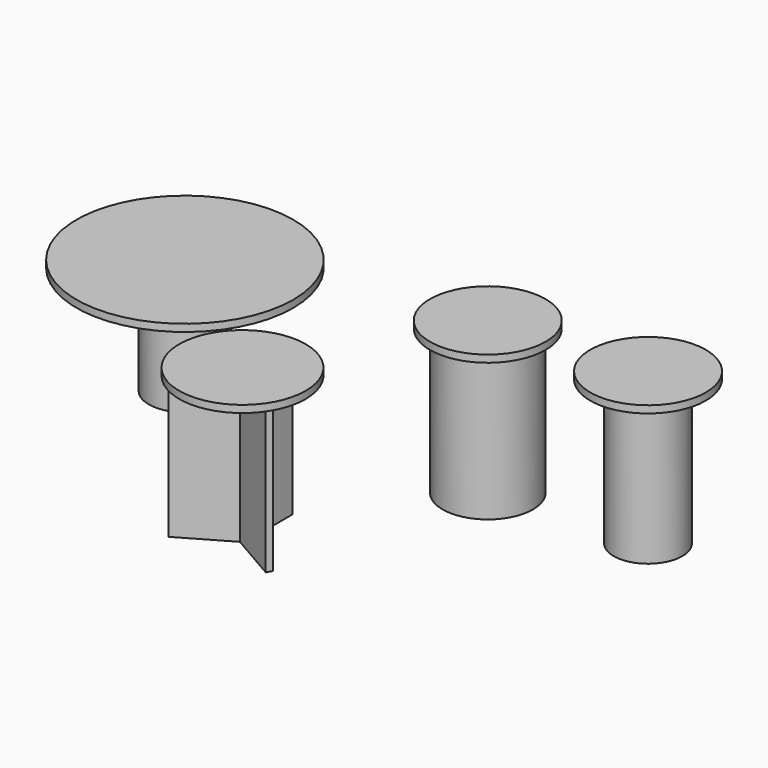
from build123d import *

# Parameters (mm, degrees)
F0_R      = 125
F0_R_2    = 100
F1_DEPTH  = 400
F2_R      = 120
F2_R_2    = 105
F3_DEPTH  = 400
F4_R      = 160
F5_DEPTH  = 20
F6_R      = 95
F6_R_2    = 85
F7_DEPTH  = 400
F8_R      = 160
F9_DEPTH  = 20
F10_R     = 100
F11_DEPTH = 300
F12_R     = 300
F13_DEPTH = 20
F15_DEPTH = 400
F16_R     = 175
F17_DEPTH = 20


with BuildPart() as f1:
    # F0 (on Top) → F1 (new body)
    with BuildSketch(Plane.XY):
        Circle(F0_R)
        Circle(F0_R_2, mode=Mode.SUBTRACT)
    extrude(amount=F1_DEPTH)


with BuildPart() as f3:
    # F2 (on Top) → F3 (new body, through all)
    with BuildSketch(Plane.XY):
        Circle(F2_R)
        Circle(F2_R_2, mode=Mode.SUBTRACT)
    extrude(amount=F3_DEPTH)


with BuildPart() as f5:
    # F4 (on face) → F5 (new body)
    with BuildSketch(Plane.XY.offset(400)):
        Circle(F4_R)
    extrude(amount=F5_DEPTH)


with BuildPart() as f7:
    # F6 (on Top) → F7 (new body)
    with BuildSketch(Plane.XY):
        with Locations((418.5667335987, 31.0303624719)):
            Circle(F6_R)
        with Locations((418.5667335987, 31.0303624719)):
            Circle(F6_R_2, mode=Mode.SUBTRACT)
    extrude(amount=F7_DEPTH)


with BuildPart() as f9:
    # F8 (on face) → F9 (new body)
    with BuildSketch(Plane.XY.offset(400)):
        with Locations((418.5667335987, 31.0303624719)):
            Circle(F8_R)
    extrude(amount=F9_DEPTH)


with BuildPart() as f11:
    # F10 (on Top) → F11 (new body)
    with BuildSketch(Plane.XY):
        with Locations((-808.6451888084, -37.0312966406)):
            Circle(F10_R)
    extrude(amount=F11_DEPTH)

    # F12 (on face) → F13 (join)
    with BuildSketch(Plane.XY.offset(300)):
        with Locations((-808.6451888084, -37.0312966406)):
            Circle(F12_R)
    extrude(amount=F13_DEPTH)


with BuildPart() as f15:
    # F14 (on Top) → F15 (new body)
    with BuildSketch(Plane.XY):
        with BuildLine():
            Line((-266.382997632, -343.2058954239), (-276.382997632, -343.2058954239))
            Line((-276.382997632, -343.2058954239), (-276.382997632, -493.2058954239))
            ThreePointArc((-276.382997632, -493.2058954239), (-271.2725924302, -494.6103292021), (-267.5976323655, -498.4291436894))
            Line((-267.5976323655, -498.4291436894), (-266.382997632, -499.1304133797))
            Line((-266.382997632, -499.1304133797), (-266.382997632, -343.2058954239))
        make_face()
        with BuildLine():
            Line((-276.382997632, -493.2058954239), (-276.382997632, -343.2058954239))
            Line((-276.382997632, -343.2058954239), (-286.382997632, -343.2058954239))
            Line((-286.382997632, -343.2058954239), (-286.382997632, -497.432392732))
            Line((-286.382997632, -497.432392732), (-281.382997632, -494.545641386))
            ThreePointArc((-281.382997632, -494.545641386), (-278.9711880831, -493.546637161), (-276.382997632, -493.2058954239))
        make_face()
        with BuildLine():
            Line((-276.382997632, -494.6764244409), (-276.382997632, -493.2058954239))
            ThreePointArc((-276.382997632, -493.2058954239), (-278.9711880831, -493.546637161), (-281.382997632, -494.545641386))
            Line((-281.382997632, -494.545641386), (-286.382997632, -497.432392732))
            Line((-286.382997632, -497.432392732), (-286.382997632, -503.2058954239))
            ThreePointArc((-286.382997632, -503.2058954239), (-286.0422558949, -505.7940858749), (-285.0432516699, -508.2058954239))
            Line((-285.0432516699, -508.2058954239), (-283.7697361841, -507.4706309154))
            ThreePointArc((-283.7697361841, -507.4706309154), (-283.7697361841, -498.9411599324), (-276.382997632, -494.6764244409))
        make_face()
        with BuildLine():
            Line((-266.382997632, -499.1304133797), (-267.5976323655, -498.4291436894))
            ThreePointArc((-267.5976323655, -498.4291436894), (-266.6914122956, -500.7415144332), (-266.382997632, -503.2058954239))
            Line((-266.382997632, -503.2058954239), (-266.382997632, -499.1304133797))
        make_face()
        with BuildLine():
            Line((-286.382997632, -503.2058954239), (-286.382997632, -497.432392732))
            Line((-286.382997632, -497.432392732), (-419.9470622375, -574.545641386))
            Line((-419.9470622375, -574.545641386), (-414.9470622375, -583.2058954239))
            Line((-414.9470622375, -583.2058954239), (-285.0432516699, -508.2058954239))
            ThreePointArc((-285.0432516699, -508.2058954239), (-286.0422558949, -505.7940858749), (-286.382997632, -503.2058954239))
        make_face()
        with BuildLine():
            Line((-133.554197535, -575.8191568718), (-266.382997632, -499.1304133797))
            Line((-266.382997632, -499.1304133797), (-266.382997632, -503.2058954239))
            ThreePointArc((-266.382997632, -503.2058954239), (-266.7237393691, -505.7940858749), (-267.7227435942, -508.2058954239))
            Line((-267.7227435942, -508.2058954239), (-137.8189330265, -583.2058954239))
            Line((-137.8189330265, -583.2058954239), (-133.554197535, -575.8191568718))
        make_face()
        with BuildLine():
            Line((-137.8189330265, -583.2058954239), (-267.7227435942, -508.2058954239))
            ThreePointArc((-267.7227435942, -508.2058954239), (-269.3119298202, -510.2769632358), (-271.382997632, -511.8661494617))
            Line((-271.382997632, -511.8661494617), (-274.912468615, -513.9038904838))
            Line((-274.912468615, -513.9038904838), (-142.083668518, -590.592633976))
            Line((-142.083668518, -590.592633976), (-137.8189330265, -583.2058954239))
        make_face()
        with BuildLine():
            ThreePointArc((-276.1271033484, -513.2026207935), (-281.271773739, -511.9294192632), (-285.0432516699, -508.2058954239))
            Line((-285.0432516699, -508.2058954239), (-414.9470622375, -583.2058954239))
            Line((-414.9470622375, -583.2058954239), (-409.9470622375, -591.8661494617))
            Line((-409.9470622375, -591.8661494617), (-274.912468615, -513.9038904838))
            Line((-274.912468615, -513.9038904838), (-276.1271033484, -513.2026207935))
        make_face()
        with BuildLine():
            Line((-274.912468615, -513.9038904838), (-271.382997632, -511.8661494617))
            ThreePointArc((-271.382997632, -511.8661494617), (-273.6714215064, -512.8312450235), (-276.1271033484, -513.2026207935))
            Line((-276.1271033484, -513.2026207935), (-274.912468615, -513.9038904838))
        make_face()
    extrude(amount=F15_DEPTH)

    # F16 (on face) → F17 (join)
    with BuildSketch(Plane.XY.offset(400)):
        with Locations((-276.382997632, -503.2058954239)):
            Circle(F16_R)
    extrude(amount=F17_DEPTH)


solid = Compound([f1.part, f3.part, f5.part, f7.part, f9.part, f11.part, f15.part])
